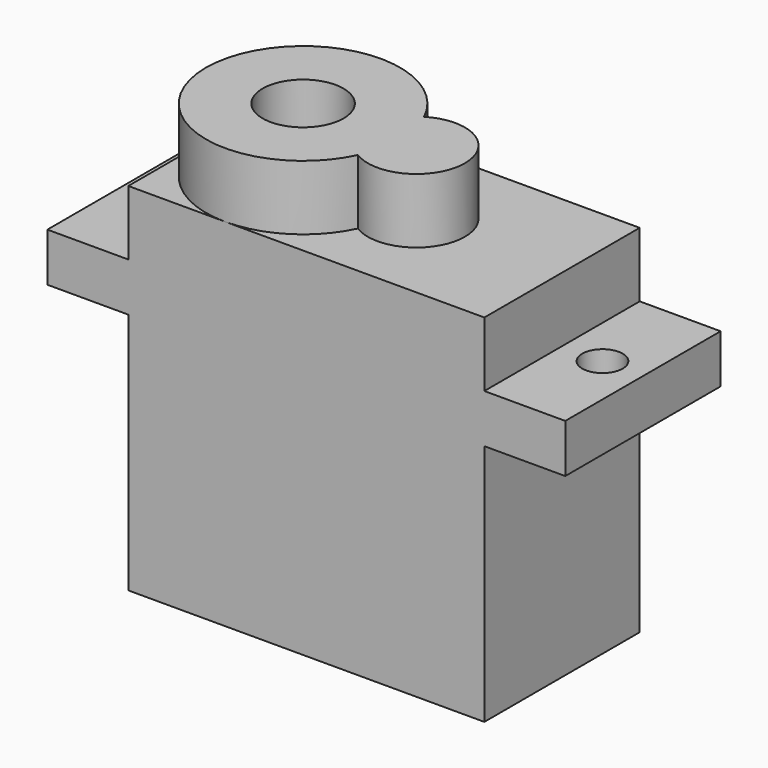
from build123d import *

# Parameters (mm, degrees)
F0_W          = 22
F0_H          = 12
F1_DEPTH      = 22
F2_R          = 2.5
F3_DEPTH      = 4
F4_W          = 12
F4_H          = 3
F5_DEPTH      = 5
F5_DEPTH_BACK = 27
F8_D          = 2.5


with BuildPart() as f1:
    # F0 (on Top) → F1 (new body)
    with BuildSketch(Plane.XY):
        Rectangle(F0_W, F0_H)
    extrude(amount=F1_DEPTH)

    # F2 (on face) → F3 (join)
    with BuildSketch(Plane.XY.offset(22)):
        with BuildLine():
            ThreePointArc((0.428571, -2.555506), (5, 0), (0.428571, 2.555506))
            ThreePointArc((0.428571, 2.555506), (-11, 0), (0.428571, -2.555506))
        make_face()
        with Locations((-5, 0)):
            Circle(F2_R, mode=Mode.SUBTRACT)
    extrude(amount=F3_DEPTH)

    # F4 (on face) → F5 (join, two sides)
    with BuildSketch(Plane(origin=(-11, 0, 0), x_dir=(0, -1, 0), z_dir=(-1, 0, 0))) as f5_sk:
        with Locations((0, 16.5)):
            Rectangle(F4_W, F4_H)
    extrude(amount=F5_DEPTH)
    extrude(f5_sk.sketch, amount=-F5_DEPTH_BACK)

    # F8 (through all)
    with Locations(Plane.XY.offset(18)):
        with Locations((13.5, 0), (-13.5, 0)):
            Hole(F8_D / 2)


solid = f1.part
